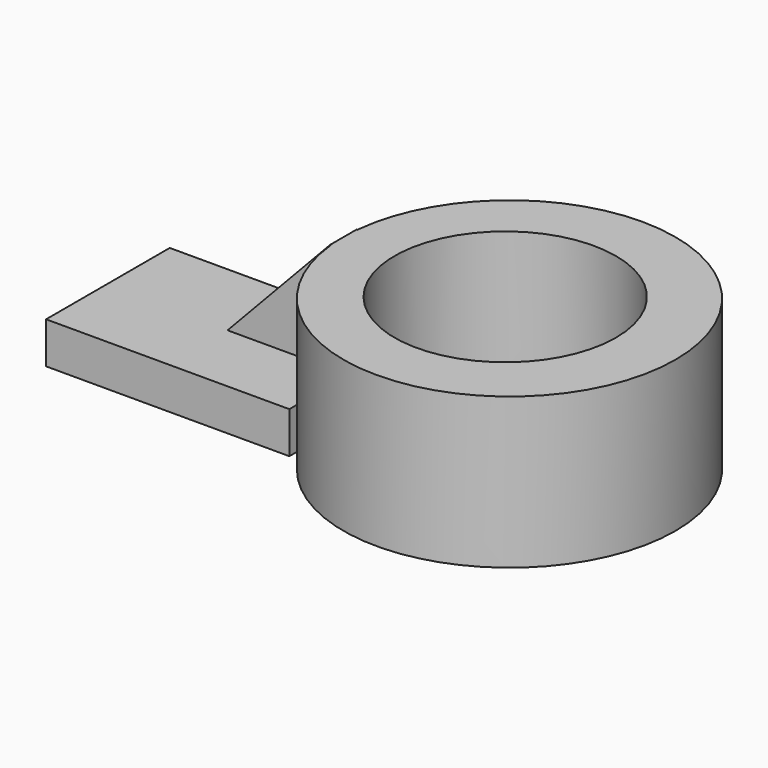
from build123d import *

# Parameters (mm, degrees)
F0_R     = 22.389121
F1_DEPTH = 20.32
F2_R     = 14.925471
F3_DEPTH = 20.321
F4_W     = 32.802565
F4_H     = 20.843296
F5_DEPTH = 5.588
F6_W     = 4.409732
F6_H     = 14.755644
F7_DEPTH = 16.764
F9_DEPTH = 50.486326


with BuildPart() as f1:
    # F0 (on Top) → F1 (new body)
    with BuildSketch(Plane.XY):
        with Locations((36.225565, 28.096205)):
            Circle(F0_R)
    extrude(amount=F1_DEPTH)

    # F2 (on Top) → F3 (cut, through all)
    with BuildSketch(Plane.XY):
        with Locations((35.655081, 28.096205)):
            Circle(F2_R)
    extrude(amount=F3_DEPTH, mode=Mode.SUBTRACT)

    # F4 (on Top) → F5 (join)
    with BuildSketch(Plane.XY):
        with Locations((-0.175342, 26.411418)):
            Rectangle(F4_W, F4_H)
    extrude(amount=F5_DEPTH)

    # F6 (on Right) → F7 (join)
    with BuildSketch(Plane.YZ):
        with Locations((28.172397, 12.87685)):
            Rectangle(F6_W, F6_H)
    extrude(amount=F7_DEPTH)

    # F8 (on Front) → F9 (cut, through all)
    with BuildSketch(Plane.XZ):
        Polygon((0, 5.684014), (13.850843, 20.343132), (0, 20.852523), align=None)
    extrude(amount=-F9_DEPTH, mode=Mode.SUBTRACT)


solid = f1.part
